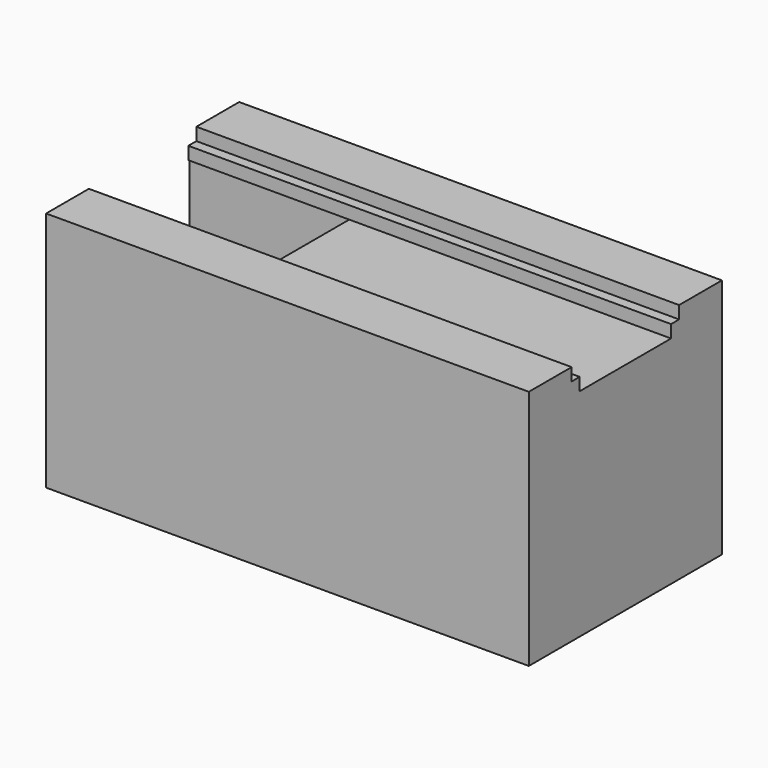
from build123d import *

# Parameters (mm, degrees)
F0_W     = 76.2
F0_H     = 76.2
F1_DEPTH = 152.4
F2_W     = 36.068
F2_H     = 8.001
F3_DEPTH = 152.401
F4_W     = 3.175
F4_H     = 4.0005
F5_DEPTH = 152.401
F6_W     = 36.83
F6_H     = 68.199
F7_DEPTH = 50.8


with BuildPart() as f1:
    # F0 (on Right) → F1 (new body)
    with BuildSketch(Plane.YZ):
        with Locations((38.1, 38.1)):
            Rectangle(F0_W, F0_H)
    extrude(amount=F1_DEPTH)

    # F2 (on face) → F3 (cut, through all)
    with BuildSketch(Plane.YZ.offset(152.4)):
        with Locations((38.1, 72.1995)):
            Rectangle(F2_W, F2_H)
    extrude(amount=-F3_DEPTH, mode=Mode.SUBTRACT)

    # F4 (on face) → F5 (cut, through all)
    with BuildSketch(Plane.YZ.offset(152.4)):
        with Locations((18.4785, 74.19975)):
            Rectangle(F4_W, F4_H)
        with Locations((57.7215, 74.19975)):
            Rectangle(F4_W, F4_H)
    extrude(amount=-F5_DEPTH, mode=Mode.SUBTRACT)

    # F6 (on face) → F7 (cut)
    with BuildSketch(Plane(origin=(0, 0, 0), x_dir=(0, -1, 0), z_dir=(-1, 0, 0))):
        with Locations((-38.1, 34.0995)):
            Rectangle(F6_W, F6_H)
    extrude(amount=-F7_DEPTH, mode=Mode.SUBTRACT)


solid = f1.part
